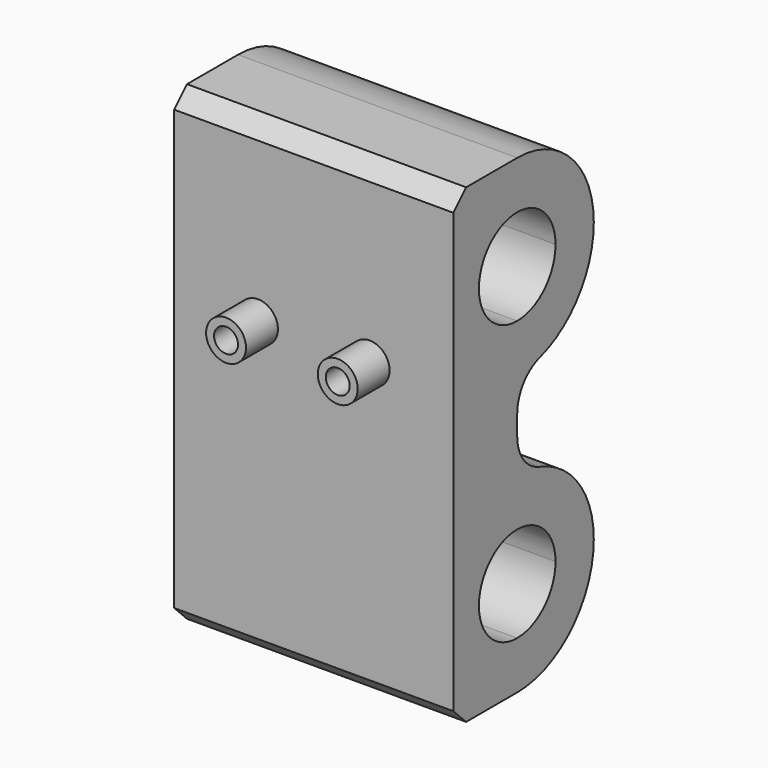
from build123d import *

# Parameters (mm, degrees)
F1_DEPTH = 35
F2_R     = 5
F3_SIZE  = 2
F4_R     = 2.5
F4_R_2   = 1.5
F5_DEPTH = 5


with BuildPart() as f1:
    # F0 (on Right) → F1 (new body)
    with BuildSketch(Plane.YZ):
        with BuildLine():
            ThreePointArc((12, -0.8728863157), (8.4852813742, 7.6123950585), (0, 11.1271136843))
            Line((0, 11.1271136843), (0, 5.1271136843))
            ThreePointArc((0, 5.1271136843), (4.2426406871, 3.3697543714), (6, -0.8728863157))
            ThreePointArc((6, -0.8728863157), (4.2426406871, -5.1155270029), (0, -6.8728863157))
            Line((0, -6.8728863157), (0, -12.8728863157))
            ThreePointArc((0, -12.8728863157), (8.4852813742, -9.35816769), (12, -0.8728863157))
        make_face()
        with BuildLine():
            Line((0, 5.1271136843), (0, 11.1271136843))
            ThreePointArc((0, 11.1271136843), (-5.6745486619, 9.7006418317), (-10, 5.760363265))
            Line((-10, 5.760363265), (-10, -7.5061358965))
            ThreePointArc((-10, -7.5061358965), (-5.6745486619, -11.4464144632), (0, -12.8728863157))
            Line((0, -12.8728863157), (0, -6.8728863157))
            ThreePointArc((0, -6.8728863157), (-6, -0.8728863157), (0, 5.1271136843))
        make_face()
        with BuildLine():
            Line((-10, -12.8728863157), (0, -12.8728863157))
            ThreePointArc((0, -12.8728863157), (-5.6745486619, -11.4464144632), (-10, -7.5061358965))
            Line((-10, -7.5061358965), (-10, -12.8728863157))
        make_face()
        with BuildLine():
            Line((0, 11.1271136843), (0, 22.1271136843))
            ThreePointArc((0, 22.1271136843), (-5.6745486619, 23.5535855368), (-10, 27.4938641035))
            Line((-10, 27.4938641035), (-10, 5.760363265))
            ThreePointArc((-10, 5.760363265), (-5.6745486619, 9.7006418317), (0, 11.1271136843))
        make_face()
        with BuildLine():
            ThreePointArc((-10, 27.4938641035), (-5.6745486619, 23.5535855368), (0, 22.1271136843))
            ThreePointArc((0, 22.1271136843), (8.4852813742, 25.64183231), (12, 34.1271136843))
            ThreePointArc((12, 34.1271136843), (8.4852813742, 42.6123950585), (0, 46.1271136843))
            ThreePointArc((0, 46.1271136843), (-5.6745486619, 44.7006418317), (-10, 40.760363265))
            Line((-10, 40.760363265), (-10, 27.4938641035))
        make_face()
        with BuildLine():
            ThreePointArc((-6, 34.1271136843), (0, 40.1271136843), (6, 34.1271136843))
            ThreePointArc((6, 34.1271136843), (4.2426406871, 29.8844729971), (0, 28.1271136843))
            ThreePointArc((0, 28.1271136843), (-4.2426406871, 29.8844729971), (-6, 34.1271136843))
        make_face(mode=Mode.SUBTRACT)
        with BuildLine():
            Line((-10, 46.1271136843), (-10, 40.760363265))
            ThreePointArc((-10, 40.760363265), (-5.6745486619, 44.7006418317), (0, 46.1271136843))
            Line((0, 46.1271136843), (-10, 46.1271136843))
        make_face()
    extrude(amount=F1_DEPTH)

    # F2
    f2_edges = [f1.edges().sort_by_distance(p)[0] for p in [
        (17.5, 0, 22.127114),
        (17.5, 0, 11.127114),
    ]]
    fillet(f2_edges, radius=F2_R)

    # F3
    f3_edges = [f1.edges().sort_by_distance(p)[0] for p in [
        (17.5, -10, -12.872886),
        (17.5, -10, 46.127114),
    ]]
    chamfer(f3_edges, length=F3_SIZE)

    # F4 (on face) → F5 (join)
    with BuildSketch(Plane.XZ.offset(10)):
        with Locations((10.5, 24.1271136843)):
            Circle(F4_R)
        with Locations((10.5, 24.1271136843)):
            Circle(F4_R_2, mode=Mode.SUBTRACT)
        with BuildLine():
            ThreePointArc((27, 24.1271136843), (24.5, 26.6271136843), (22, 24.1271136843))
            ThreePointArc((22, 24.1271136843), (24.5, 21.6271136843), (27, 24.1271136843))
        make_face()
        with BuildLine():
            ThreePointArc((26, 24.1271136843), (24.5, 22.6271136843), (23, 24.1271136843))
            ThreePointArc((23, 24.1271136843), (24.5, 25.6271136843), (26, 24.1271136843))
        make_face(mode=Mode.SUBTRACT)
    extrude(amount=F5_DEPTH)


solid = f1.part
